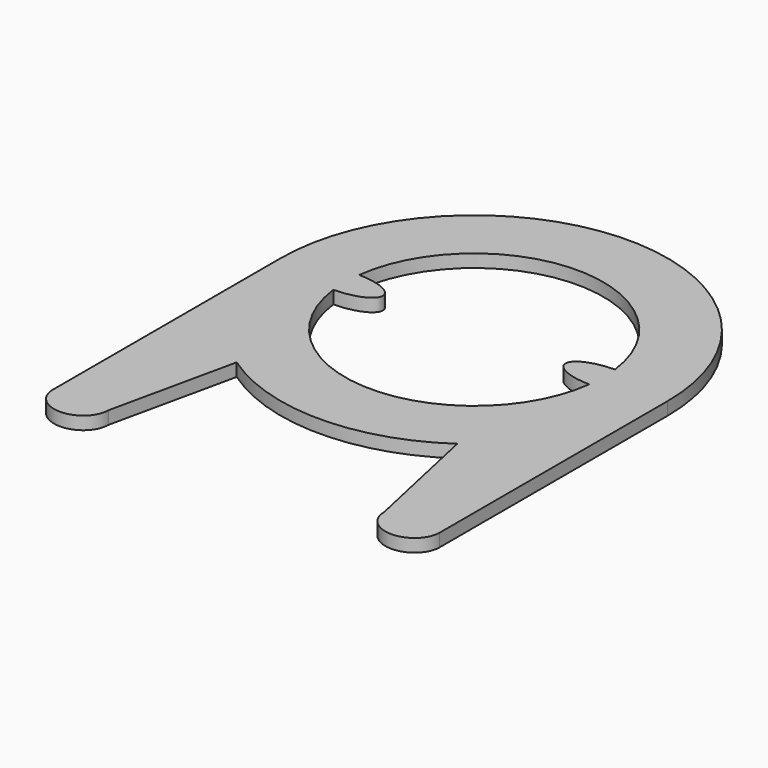
from build123d import *

# Parameters (mm, degrees)
F1_DEPTH = 2.54


with BuildPart() as f1:
    # F0 (on Top) → F1 (new body)
    with BuildSketch(Plane.XY):
        with BuildLine():
            ThreePointArc((21.7176005389, -31.304246147), (33.7568554558, -17.6659194421), (38.1, 0))
            ThreePointArc((38.1, 0), (0, 38.1), (-38.1, 0))
            ThreePointArc((-38.1, 0), (-33.7568554558, -17.6659194421), (-21.7176005389, -31.304246147))
            ThreePointArc((-21.7176005389, -31.304246147), (0, -38.1), (21.7176005389, -31.304246147))
        make_face()
        with BuildLine():
            ThreePointArc((25.2009259919, 3.1738508394), (25.3501826443, 1.590043994), (25.4, 0))
            ThreePointArc((25.4, 0), (25.3501826443, -1.590043994), (25.2009259919, -3.1738508394))
            ThreePointArc((25.2009259919, -3.1738508394), (0, -25.4), (-25.2009259919, -3.1738508394))
            ThreePointArc((-25.2009259919, -3.1738508394), (-25.4, 0), (-25.2009259919, 3.1738508394))
            ThreePointArc((-25.2009259919, 3.1738508394), (0, 25.4), (25.2009259919, 3.1738508394))
        make_face(mode=Mode.SUBTRACT)
        with BuildLine():
            Line((38.1, -56.116766419), (38.1, 0))
            ThreePointArc((38.1, 0), (33.7568554558, -17.6659194421), (21.7176005389, -31.304246147))
            Line((21.7176005389, -31.304246147), (27.1488837898, -56.116766419))
            Line((27.1488837898, -56.116766419), (38.1, -56.116766419))
        make_face()
        with BuildLine():
            ThreePointArc((-21.7176005389, -31.304246147), (-33.7568554558, -17.6659194421), (-38.1, 0))
            Line((-38.1, 0), (-38.1, -56.116766419))
            Line((-38.1, -56.116766419), (-27.1488837898, -56.116766419))
            Line((-27.1488837898, -56.116766419), (-21.7176005389, -31.304246147))
        make_face()
        with BuildLine():
            add(Edge.make_bspline(
                [(27.1488837898, -56.116766419), (27.1488837898, -61.1459194978), (32.6244418949, -61.1459194978), (38.1, -61.1459194978), (38.1, -56.116766419)],
                knots=[0, 0, 0, 1.5707963268, 1.5707963268, 3.1415926536, 3.1415926536, 3.1415926536], degree=2, weights=[1, 0.7071067812, 1, 0.7071067812, 1]))
            Line((38.1, -56.116766419), (27.1488837898, -56.116766419))
        make_face()
        with BuildLine():
            Line((-27.1488837898, -56.116766419), (-38.1, -56.116766419))
            add(Edge.make_bspline(
                [(-38.1, -56.116766419), (-38.1, -61.1459194978), (-32.6244418949, -61.1459194978), (-27.1488837898, -61.1459194978), (-27.1488837898, -56.116766419)],
                knots=[0, 0, 0, 1.5707963268, 1.5707963268, 3.1415926536, 3.1415926536, 3.1415926536], degree=2, weights=[1, 0.7071067812, 1, 0.7071067812, 1]))
        make_face()
        with BuildLine():
            add(Edge.make_bspline(
                [(-25.2009259919, -3.1738508394), (-18.0001935542, -3.0907029057), (-18.0001935542, 0), (-18.0001935542, 3.0907029057), (-25.2009259919, 3.1738508394)],
                knots=[1.5977021696, 1.5977021696, 1.5977021696, 3.1415926536, 3.1415926536, 4.6854831376, 4.6854831376, 4.6854831376], degree=2, weights=[1, 0.7165551607, 1, 0.7165551607, 1]))
            ThreePointArc((-25.2009259919, 3.1738508394), (-25.4, 0), (-25.2009259919, -3.1738508394))
        make_face()
        with BuildLine():
            ThreePointArc((25.2009259919, -3.1738508394), (25.3501826443, -1.590043994), (25.4, 0))
            ThreePointArc((25.4, 0), (25.3501826443, 1.590043994), (25.2009259919, 3.1738508394))
            add(Edge.make_bspline(
                [(25.2009259919, 3.1738508394), (18.0001935542, 3.0907029057), (18.0001935542, 0), (18.0001935542, -3.0907029057), (25.2009259919, -3.1738508394)],
                knots=[1.5977021696, 1.5977021696, 1.5977021696, 3.1415926536, 3.1415926536, 4.6854831376, 4.6854831376, 4.6854831376], degree=2, weights=[1, 0.7165551607, 1, 0.7165551607, 1]))
        make_face()
    extrude(amount=F1_DEPTH)


solid = f1.part
